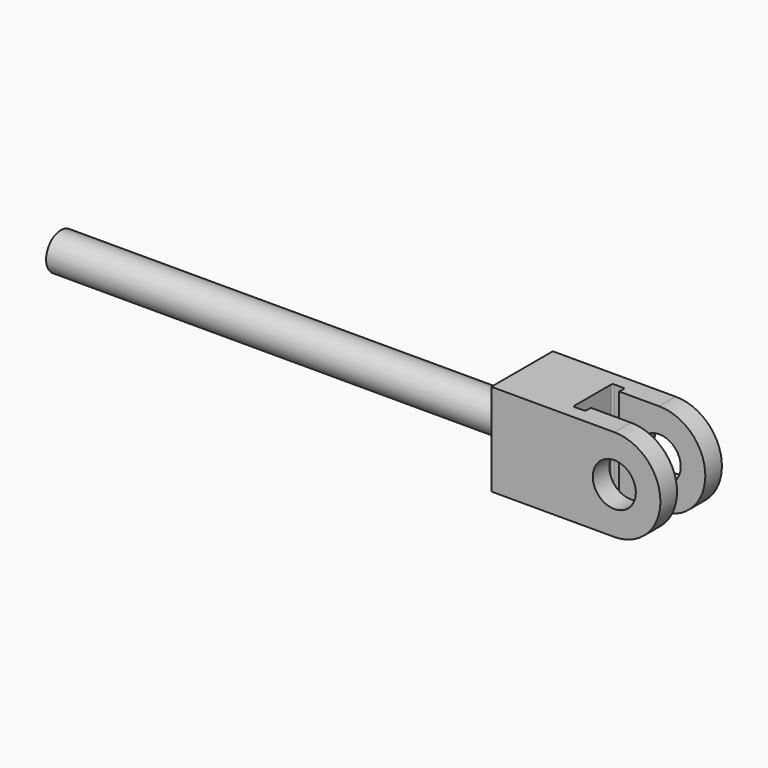
from build123d import *

# Parameters (mm, degrees)
CYLINDER_R       = 12
CYLINDER_DEPTH   = 300
EXTRUDE003_DEPTH = 80
SKETCH009_R      = 14
EXTRUDE002_DEPTH = 25


with BuildPart() as cylinder:
    # Cylinder → Cylinder (new body)
    with BuildSketch(Plane.ZY.offset(80)):
        Circle(CYLINDER_R)
    extrude(amount=CYLINDER_DEPTH)


with BuildPart() as extrude003:
    # Sketch010 (on Face2 of Extrude002) → Extrude003 (new body)
    with BuildSketch(Plane.XY.offset(30)):
        with BuildLine():
            Line((30, 11.5), (-26, 11.5))
            Line((-26, 11.5), (-26, 14.999992))
            ThreePointArc((-26, 14.999992), (-26.29289, 15.707104), (-27, 16))
            Line((-27, 16), (-33, 16))
            ThreePointArc((-33, 16), (-33.707107, 15.707107), (-34, 15))
            Line((-34, 15), (-34, -15))
            ThreePointArc((-34, -15), (-33.707107, -15.707107), (-33, -16))
            Line((-33, -16), (-27, -16))
            ThreePointArc((-27, -16), (-26.292893, -15.707107), (-26, -15))
            Line((-26, -15), (-26, -11.5))
            Line((-26, -11.5), (30, -11.5))
            Line((30, -11.5), (30, 11.5))
        make_face()
    extrude(amount=-EXTRUDE003_DEPTH)


with BuildPart() as obj1:
    # Sketch009 → Extrude002 (new body, symmetric)
    with BuildSketch(Plane.XZ):
        with BuildLine():
            ThreePointArc((0, -30), (30, 0), (0, 30))
            Line((0, 30), (-80, 30))
            Line((-80, 30), (-80, -30))
            Line((-80, -30), (0, -30))
        make_face()
        Circle(SKETCH009_R, mode=Mode.SUBTRACT)
    extrude(amount=EXTRUDE002_DEPTH, both=True)

    # Cut003: cut Extrude003
    add(extrude003.part, mode=Mode.SUBTRACT)

    # Fusion: union Cylinder
    add(cylinder.part)


solid = obj1.part
